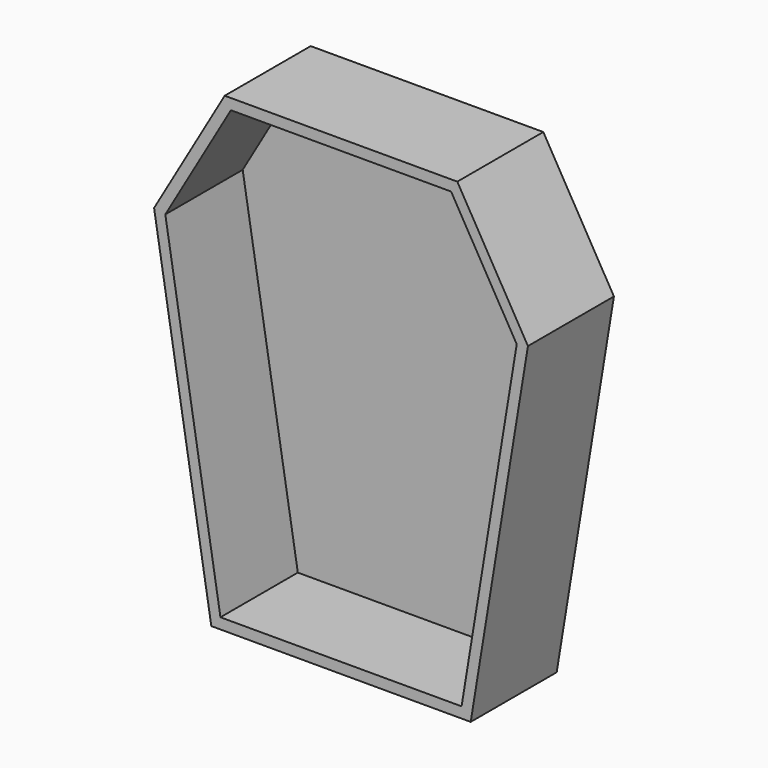
from build123d import *

# Parameters (mm, degrees)
F2_DEPTH = 25.4
F3_T     = -2.54


with BuildPart() as f2:
    # F0 (on Front) → F2 (new body)
    with BuildSketch(Plane.XZ):
        Polygon((27.629351, 55.258706), (-27.341546, 55.258706), (-44.03428, 26.478129), (-30.50741, -56.122124), (30.795213, -56.122124), (44.322088, 26.478129), align=None)
    extrude(amount=-F2_DEPTH)

    # F3
    f3_openings = [f2.faces().sort_by_distance(p)[0] for p in [
        (0.143903, 0, 0.698193),
    ]]
    offset(amount=F3_T, openings=f3_openings)


solid = f2.part
